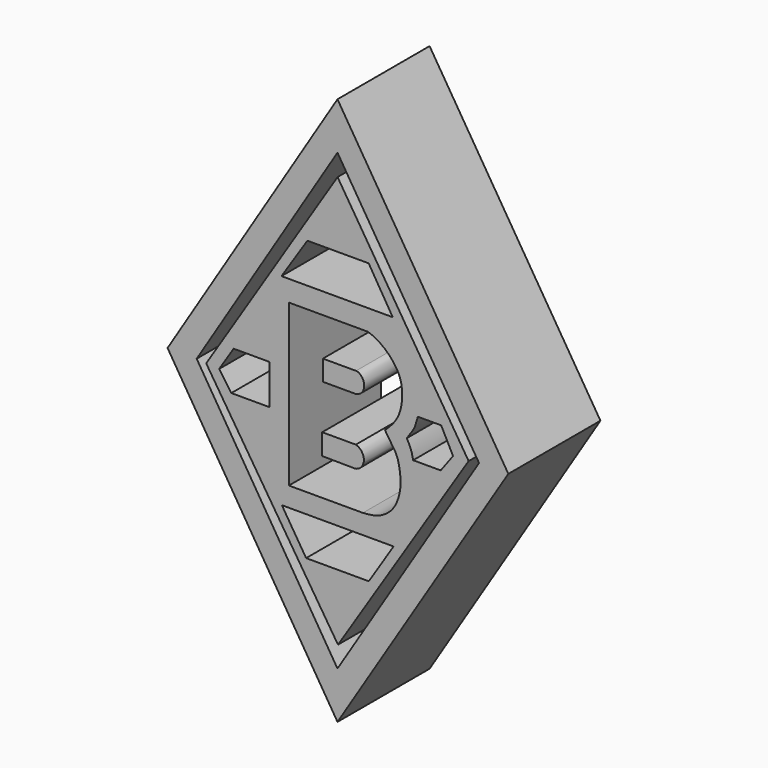
from build123d import *

# Parameters (mm, degrees)
F1_DEPTH = 12.7


with BuildPart() as f1:
    # F0 (on Front) → F1 (new body)
    with BuildSketch(Plane.XZ):
        Polygon((55.7935386896, 36.7190510854), (36.9497281499, 66.9649243355), (18.2089805603, 36.7190510854), (36.9497281499, 6.503792014), align=None)
        Polygon((36.9497281499, 11.6835868778), (21.4217025787, 36.7190510854), (36.9497281499, 61.7798812901), (52.5631486136, 36.7190510854), align=None, mode=Mode.SUBTRACT)
    extrude(amount=F1_DEPTH)


with BuildPart() as f1b:
    # F0 (on Front) → F1, piece 2 (new body)
    with BuildSketch(Plane.XZ):
        Polygon((36.961235106, 59.4144389033), (22.4695149809, 36.6130620241), (37.0061062276, 14.0193393454), (51.4128133655, 36.5327745676), align=None)
        Polygon((40.4053814709, 21.2857276201), (33.4929376841, 21.2857276201), (30.8136940002, 25.5541232933), (43.1367961042, 25.5541232933), align=None, mode=Mode.SUBTRACT)
        with BuildLine():
            Line((31.5892696381, 45.4823561013), (40.3105765581, 45.4823561013))
            add(Edge.make_bspline(
                [(40.3105765581, 45.4823561013), (40.5333300825, 45.4085817866), (41.042455534, 45.2399632142), (42.1005544789, 44.5479394631), (43.0744390966, 43.5826743272), (43.925763597, 42.2555841719), (44.1100589755, 40.8619686909), (44.0575175742, 39.5641218576), (43.6479933041, 38.1108548902), (42.6901208937, 36.9863822802), (42.3252794068, 36.6807332491), (42.1796739101, 36.5587510169)],
                knots=[0, 0, 0, 0, 0.0870043531, 0.1988571479, 0.3179186916, 0.442930924, 0.5608163005, 0.6748511408, 0.7987301676, 0.9196747219, 1, 1, 1, 1], degree=3))
            add(Edge.make_bspline(
                [(42.1796739101, 36.5587510169), (42.3264358464, 36.3407158161), (42.6522921404, 35.8566111205), (43.3808372382, 34.8074425703), (43.7226515634, 33.8670891114), (43.936391539, 32.5382323001), (43.906838669, 31.0661385984), (43.295675562, 29.1766064867), (41.8275926432, 28.0438558863), (40.6063341243, 27.773352256), (40.021191355, 27.7321808996), (39.7569350898, 27.7135875076)],
                knots=[0, 0, 0, 0, 0.0905041515, 0.2009468405, 0.3001036028, 0.412460378, 0.5326837088, 0.6696877281, 0.8015789922, 0.9103911093, 1, 1, 1, 1], degree=3))
            Line((39.7569350898, 27.7135875076), (31.5892696381, 27.7135875076))
            Line((31.5892696381, 27.7135875076), (31.5892696381, 45.4823561013))
        make_face(mode=Mode.SUBTRACT)
        Polygon((29.474074021, 34.628354013), (25.2408720553, 34.628354013), (23.9017345011, 36.5349836648), (25.4948213696, 39.0223115683), (29.474074021, 39.0223115683), align=None, mode=Mode.SUBTRACT)
        Polygon((43.0411249399, 47.7829612792), (30.7743567973, 47.7829612792), (33.6297526956, 52.1540269256), (40.3920710087, 52.1540269256), align=None, mode=Mode.SUBTRACT)
        with BuildLine():
            Line((48.335775733, 34.628354013), (45.2958680689, 34.628354013))
            add(Edge.make_bspline(
                [(45.2958680689, 34.628354013), (45.2493090735, 34.8795872134), (45.154844931, 35.3893174737), (44.8068270324, 36.1568551796), (44.6597168136, 36.4270999952), (44.5984788239, 36.5395955741)],
                knots=[0, 0, 0, 0, 0.3619699152, 0.7344053999, 1, 1, 1, 1], degree=3))
            add(Edge.make_bspline(
                [(45.8144433796, 39.0223115683), (45.7619252527, 38.826735599), (45.6512299545, 38.4145095445), (45.4449422066, 37.7343205226), (44.7815224594, 36.8240355108), (44.6459435385, 36.6133531805), (44.5984788239, 36.5395955741)],
                knots=[0, 0, 0, 0, 0.2388838223, 0.50350836, 0.8261836438, 1, 1, 1, 1], degree=3))
            Line((45.8144433796, 39.0223115683), (48.3894199133, 39.0223115683))
            Line((48.3894199133, 39.0223115683), (49.6947914362, 36.4680700004))
            Line((49.6947914362, 36.4680700004), (48.335775733, 34.628354013))
        make_face(mode=Mode.SUBTRACT)
    extrude(amount=F1_DEPTH)


with BuildPart() as f1c:
    # F0 (on Front) → F1, piece 3 (new body)
    with BuildSketch(Plane.XZ):
        with BuildLine():
            Line((35.2640636265, 34.0863354504), (35.2640636265, 31.7708700895))
            Line((35.2640636265, 31.7708700895), (38.922406733, 31.7344889045))
            add(Edge.make_bspline(
                [(38.922406733, 31.7344889045), (38.9920509714, 31.7500054339), (39.1644750388, 31.7884210038), (39.6172983515, 32.0634365037), (39.7839162385, 32.4707960681), (39.8572192368, 32.6461160883), (39.877484768, 33.0735684697), (39.7405030799, 33.4586486799), (39.4774261787, 33.8440447349), (39.1729432343, 34.0160993046), (39.0337644154, 34.0649864326), (38.9729849994, 34.0863354504)],
                knots=[0, 0, 0, 0, 0.0923737548, 0.2286974329, 0.3512949974, 0.4338000293, 0.553394417, 0.6761573175, 0.8042086158, 0.9144978662, 1, 1, 1, 1], degree=3))
            Line((38.9729849994, 34.0863354504), (35.2640636265, 34.0863354504))
        make_face()
    extrude(amount=F1_DEPTH)


with BuildPart() as f1d:
    # F0 (on Front) → F1, piece 4 (new body)
    with BuildSketch(Plane.XZ):
        with BuildLine():
            Line((35.3397987783, 41.2588343024), (35.3397987783, 39.0047281981))
            Line((35.3397987783, 39.0047281981), (39.0399359167, 39.0047281981))
            add(Edge.make_bspline(
                [(38.9974042773, 41.2588343024), (39.0873141247, 41.2475297089), (39.2975489241, 41.2210963534), (39.7001234425, 40.867086274), (39.892596456, 40.3749429327), (39.9017244721, 39.9722490655), (39.8167501853, 39.5886572913), (39.5394832868, 39.2041753541), (39.2112330081, 39.0731195454), (39.0399359167, 39.0047281981)],
                knots=[0, 0, 0, 0, 0.1157876497, 0.2707444625, 0.4276274278, 0.5633144477, 0.6968842221, 0.8418193236, 1, 1, 1, 1], degree=3))
            Line((38.9974042773, 41.2588343024), (35.3397987783, 41.2588343024))
        make_face()
    extrude(amount=F1_DEPTH)


solid = Compound([f1.part, f1b.part, f1c.part, f1d.part])
